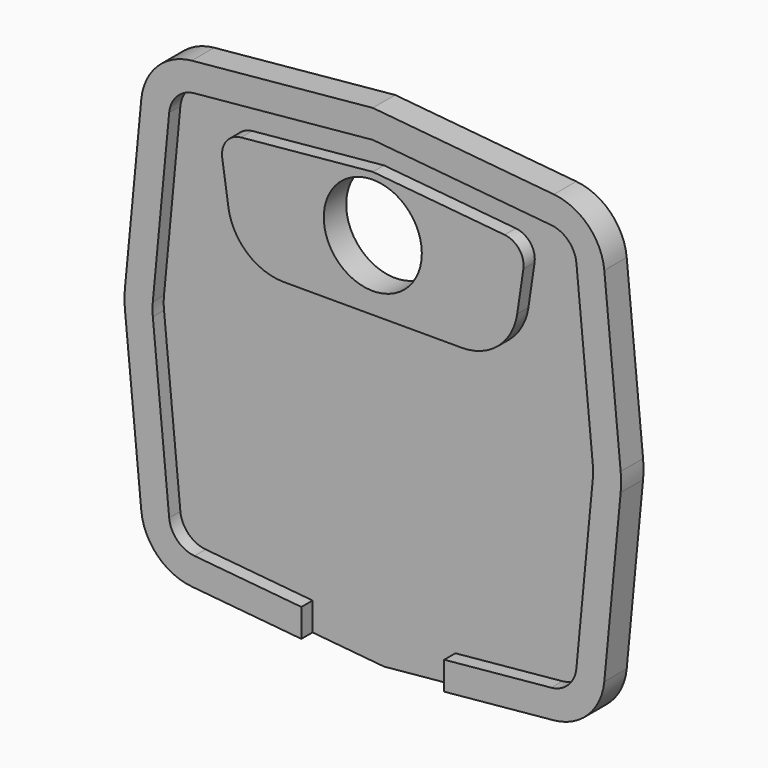
from build123d import *

# Parameters (mm, degrees)
F0_R     = 3.5
F1_DEPTH = 1
F2_DEPTH = 2


with BuildPart() as f1:
    # F0 (on Front) → F1 (new body)
    with BuildSketch(Plane.XZ):
        with BuildLine():
            Line((3.014297, 30.287076), (15.75, 31.5))
            Line((15.75, 31.5), (28.485703, 30.287076))
            ThreePointArc((28.485703, 30.287076), (29.710299, 29.710299), (30.287076, 28.485703))
            Line((30.287076, 28.485703), (31.454853, 16.224045))
            ThreePointArc((31.454853, 16.224045), (31.477375, 15.75), (31.454853, 15.275955))
            Line((31.454853, 15.275955), (30.287076, 3.014297))
            ThreePointArc((30.287076, 3.014297), (29.710299, 1.789701), (28.485703, 1.212924))
            Line((28.485703, 1.212924), (20.85, 0.485714))
            Line((20.85, 0.485714), (20.85, -1.523336))
            Line((20.85, -1.523336), (28.675321, -0.778067))
            ThreePointArc((28.675321, -0.778067), (31.124512, 0.375488), (32.278067, 2.824679))
            Line((32.278067, 2.824679), (33.445844, 15.086336))
            ThreePointArc((33.445844, 15.086336), (33.477375, 15.75), (33.445844, 16.413664))
            Line((33.445844, 16.413664), (32.278067, 28.675321))
            ThreePointArc((32.278067, 28.675321), (31.124512, 31.124512), (28.675321, 32.278067))
            Line((28.675321, 32.278067), (15.75, 33.50905))
            Line((15.75, 33.50905), (2.824679, 32.278067))
            ThreePointArc((2.824679, 32.278067), (0.375488, 31.124512), (-0.778067, 28.675321))
            Line((-0.778067, 28.675321), (-1.945844, 16.413664))
            ThreePointArc((-1.945844, 16.413664), (-1.977375, 15.75), (-1.945844, 15.086336))
            Line((-1.945844, 15.086336), (-0.778067, 2.824679))
            ThreePointArc((-0.778067, 2.824679), (0.375488, 0.375488), (2.824679, -0.778067))
            Line((2.824679, -0.778067), (10.65, -1.523336))
            Line((10.65, -1.523336), (10.65, 0.485714))
            Line((10.65, 0.485714), (3.014297, 1.212924))
            ThreePointArc((3.014297, 1.212924), (1.789701, 1.789701), (1.212924, 3.014297))
            Line((1.212924, 3.014297), (0.045147, 15.275955))
            ThreePointArc((0.045147, 15.275955), (0.022625, 15.75), (0.045147, 16.224045))
            Line((0.045147, 16.224045), (1.212924, 28.485703))
            ThreePointArc((1.212924, 28.485703), (1.789701, 29.710299), (3.014297, 30.287076))
        make_face()
        with BuildLine():
            Line((28.485703, 30.287076), (15.75, 31.5))
            Line((15.75, 31.5), (3.014297, 30.287076))
            ThreePointArc((3.014297, 30.287076), (1.789701, 29.710299), (1.212924, 28.485703))
            Line((1.212924, 28.485703), (0.045147, 16.224045))
            ThreePointArc((0.045147, 16.224045), (0.022625, 15.75), (0.045147, 15.275955))
            Line((0.045147, 15.275955), (1.212924, 3.014297))
            ThreePointArc((1.212924, 3.014297), (1.789701, 1.789701), (3.014297, 1.212924))
            Line((3.014297, 1.212924), (10.65, 0.485714))
            Line((10.65, 0.485714), (15.75, 0))
            Line((15.75, 0), (20.85, 0.485714))
            Line((20.85, 0.485714), (28.485703, 1.212924))
            ThreePointArc((28.485703, 1.212924), (29.710299, 1.789701), (30.287076, 3.014297))
            Line((30.287076, 3.014297), (31.454853, 15.275955))
            ThreePointArc((31.454853, 15.275955), (31.477375, 15.75), (31.454853, 16.224045))
            Line((31.454853, 16.224045), (30.287076, 28.485703))
            ThreePointArc((30.287076, 28.485703), (29.710299, 29.710299), (28.485703, 30.287076))
        make_face()
        with BuildLine():
            Line((5.439205, 23.914393), (5, 26.882069))
            ThreePointArc((5, 26.882069), (5.302961, 28.026619), (6.341624, 28.594914))
            Line((6.341624, 28.594914), (15.75, 29.49095))
            Line((15.75, 29.49095), (25.158376, 28.594914))
            ThreePointArc((25.158376, 28.594914), (26.197039, 28.026619), (26.5, 26.882069))
            Line((26.5, 26.882069), (26.060795, 23.914393))
            ThreePointArc((26.060795, 23.914393), (24.717088, 21.471599), (22.103894, 20.5))
            Line((22.103894, 20.5), (15.75, 20.5))
            Line((15.75, 20.5), (9.396106, 20.5))
            ThreePointArc((9.396106, 20.5), (6.782912, 21.471599), (5.439205, 23.914393))
        make_face(mode=Mode.SUBTRACT)
        with BuildLine():
            ThreePointArc((6.341624, 28.594914), (5.302961, 28.026619), (5, 26.882069))
            Line((5, 26.882069), (5.439205, 23.914393))
            ThreePointArc((5.439205, 23.914393), (6.782912, 21.471599), (9.396106, 20.5))
            Line((9.396106, 20.5), (15.75, 20.5))
            Line((15.75, 20.5), (22.103894, 20.5))
            ThreePointArc((22.103894, 20.5), (24.717088, 21.471599), (26.060795, 23.914393))
            Line((26.060795, 23.914393), (26.5, 26.882069))
            ThreePointArc((26.5, 26.882069), (26.197039, 28.026619), (25.158376, 28.594914))
            Line((25.158376, 28.594914), (15.75, 29.49095))
            Line((15.75, 29.49095), (6.341624, 28.594914))
        make_face()
        with Locations((15.75, 25.5)):
            Circle(F0_R, mode=Mode.SUBTRACT)
        Polygon((15.75, 0), (10.65, 0.485714), (10.65, -1.523336), (15.75, -2.00905), (20.85, -1.523336), (20.85, 0.485714), align=None)
    extrude(amount=F1_DEPTH)

    # F0 (on Front) → F2 (join)
    with BuildSketch(Plane.XZ):
        with BuildLine():
            ThreePointArc((6.341624, 28.594914), (5.302961, 28.026619), (5, 26.882069))
            Line((5, 26.882069), (5.439205, 23.914393))
            ThreePointArc((5.439205, 23.914393), (6.782912, 21.471599), (9.396106, 20.5))
            Line((9.396106, 20.5), (15.75, 20.5))
            Line((15.75, 20.5), (22.103894, 20.5))
            ThreePointArc((22.103894, 20.5), (24.717088, 21.471599), (26.060795, 23.914393))
            Line((26.060795, 23.914393), (26.5, 26.882069))
            ThreePointArc((26.5, 26.882069), (26.197039, 28.026619), (25.158376, 28.594914))
            Line((25.158376, 28.594914), (15.75, 29.49095))
            Line((15.75, 29.49095), (6.341624, 28.594914))
        make_face()
        with Locations((15.75, 25.5)):
            Circle(F0_R, mode=Mode.SUBTRACT)
        with BuildLine():
            Line((3.014297, 30.287076), (15.75, 31.5))
            Line((15.75, 31.5), (28.485703, 30.287076))
            ThreePointArc((28.485703, 30.287076), (29.710299, 29.710299), (30.287076, 28.485703))
            Line((30.287076, 28.485703), (31.454853, 16.224045))
            ThreePointArc((31.454853, 16.224045), (31.477375, 15.75), (31.454853, 15.275955))
            Line((31.454853, 15.275955), (30.287076, 3.014297))
            ThreePointArc((30.287076, 3.014297), (29.710299, 1.789701), (28.485703, 1.212924))
            Line((28.485703, 1.212924), (20.85, 0.485714))
            Line((20.85, 0.485714), (20.85, -1.523336))
            Line((20.85, -1.523336), (28.675321, -0.778067))
            ThreePointArc((28.675321, -0.778067), (31.124512, 0.375488), (32.278067, 2.824679))
            Line((32.278067, 2.824679), (33.445844, 15.086336))
            ThreePointArc((33.445844, 15.086336), (33.477375, 15.75), (33.445844, 16.413664))
            Line((33.445844, 16.413664), (32.278067, 28.675321))
            ThreePointArc((32.278067, 28.675321), (31.124512, 31.124512), (28.675321, 32.278067))
            Line((28.675321, 32.278067), (15.75, 33.50905))
            Line((15.75, 33.50905), (2.824679, 32.278067))
            ThreePointArc((2.824679, 32.278067), (0.375488, 31.124512), (-0.778067, 28.675321))
            Line((-0.778067, 28.675321), (-1.945844, 16.413664))
            ThreePointArc((-1.945844, 16.413664), (-1.977375, 15.75), (-1.945844, 15.086336))
            Line((-1.945844, 15.086336), (-0.778067, 2.824679))
            ThreePointArc((-0.778067, 2.824679), (0.375488, 0.375488), (2.824679, -0.778067))
            Line((2.824679, -0.778067), (10.65, -1.523336))
            Line((10.65, -1.523336), (10.65, 0.485714))
            Line((10.65, 0.485714), (3.014297, 1.212924))
            ThreePointArc((3.014297, 1.212924), (1.789701, 1.789701), (1.212924, 3.014297))
            Line((1.212924, 3.014297), (0.045147, 15.275955))
            ThreePointArc((0.045147, 15.275955), (0.022625, 15.75), (0.045147, 16.224045))
            Line((0.045147, 16.224045), (1.212924, 28.485703))
            ThreePointArc((1.212924, 28.485703), (1.789701, 29.710299), (3.014297, 30.287076))
        make_face()
    extrude(amount=F2_DEPTH)


solid = f1.part
